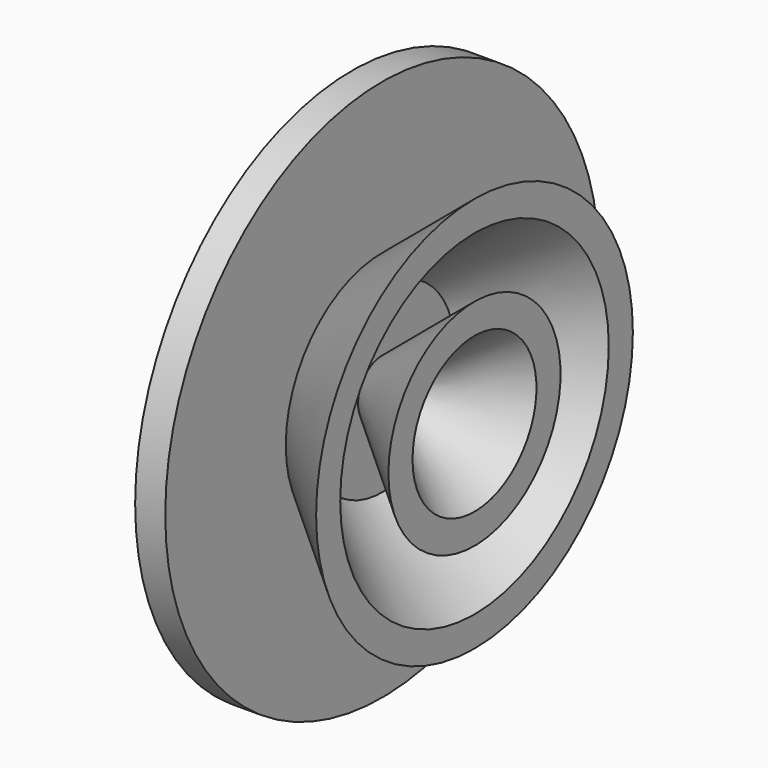
from build123d import *


with BuildPart() as f1:
    # F0 (on Top) → F1 (revolve)
    with BuildSketch(Plane.XY):
        Polygon((4, 0), (0, 0), (0, -36), (4, -36), (4, -16), (16.256711, -26.284602), (16.256711, -22.284602), (4, -12), (4, -4), (16.256711, -14.284602), (16.256711, -10.284602), align=None)
    revolve(axis=Axis((2, 0, 0), (-1, 0, 0)))


solid = f1.part
